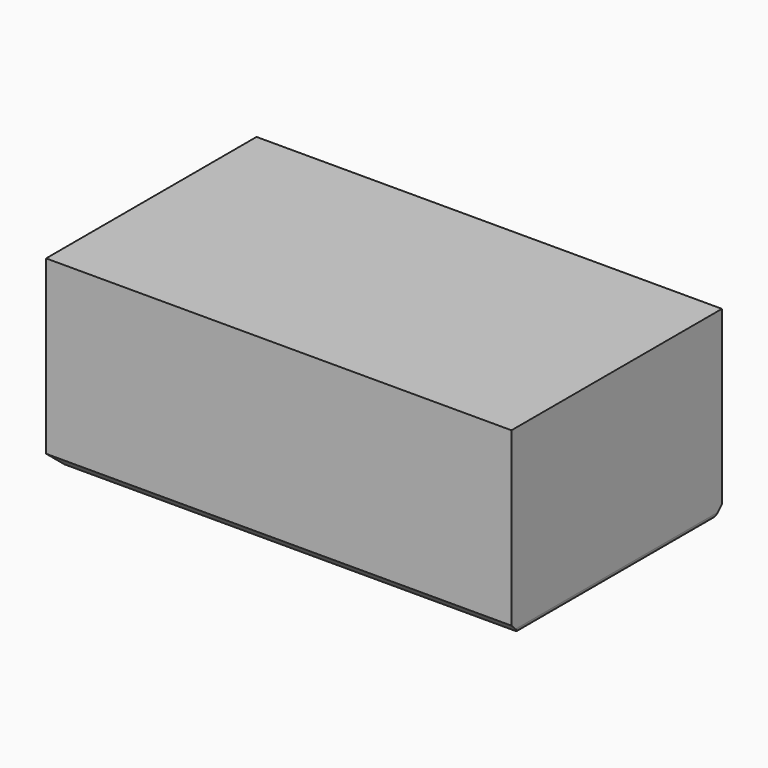
from build123d import *

# Parameters (mm, degrees)
F0_W     = 1168.4
F0_H     = 457.2
F1_DEPTH = 660.4
F2_SIZE  = 25.4
F3_R     = 12.7


with BuildPart() as f1:
    # F0 (on Front) → F1 (new body)
    with BuildSketch(Plane.XZ):
        with Locations((611.931063, 219.894172)):
            Rectangle(F0_W, F0_H)
    extrude(amount=F1_DEPTH)

    # F2
    f2_edges = [f1.edges().sort_by_distance(p)[0] for p in [
        (611.931063, -660.4, -8.705828),
        (27.731063, -330.2, -8.705828),
        (611.931063, 0, -8.705828),
    ]]
    chamfer(f2_edges, length=F2_SIZE)

    # F3
    f3_edges = [f1.edges().sort_by_distance(p)[0] for p in [
        (1196.131063, -330.2, -8.705828),
    ]]
    fillet(f3_edges, radius=F3_R)


solid = f1.part
